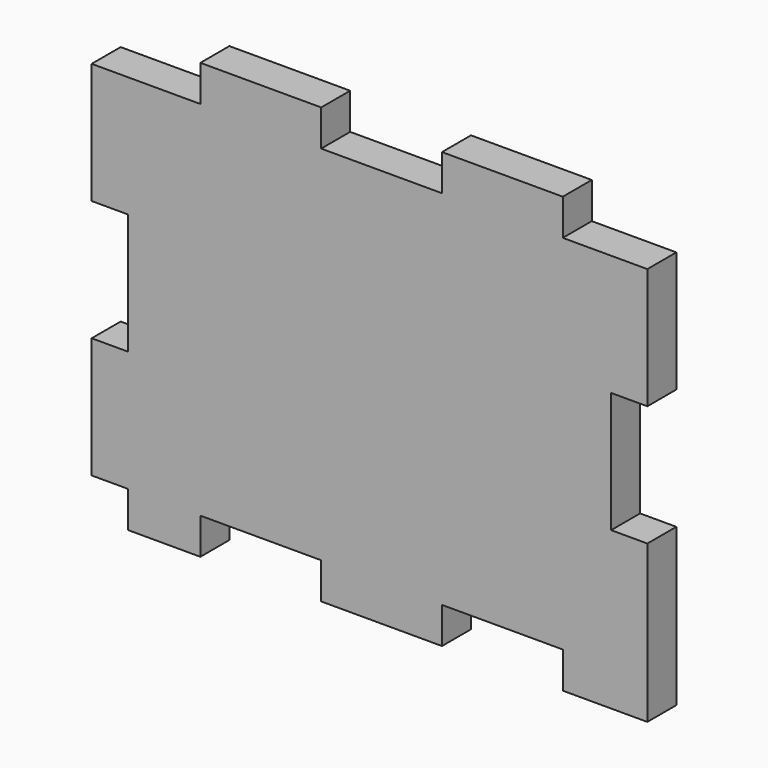
from build123d import *

# Parameters (mm, degrees)
RECTANGLE160_W                          = 3
RECTANGLE160_H                          = 10
EXTRUDE209_DEPTH                        = 3
EXTRUDE208_DEPTH                        = 3
BOX007_W                                = 46
BOX007_H                                = 3
BOX007_DEPTH                            = 30
RECTANGLE077_AS_DRAWN_W                 = 10
RECTANGLE077_AS_DRAWN_H                 = 3
EXTRUDE087_DEPTH                        = 3
EXTRUDE087_ONTO_RECTANGLE077_ROLL_ANGLE = 90
RECTANGLE076_AS_DRAWN_W                 = 10
RECTANGLE076_AS_DRAWN_H                 = 3
EXTRUDE086_DEPTH                        = 3
EXTRUDE086_ONTO_RECTANGLE076_ROLL_ANGLE = 90
FUSION063_PLACEMENT_ANGLE               = 180
RECTANGLE075_AS_DRAWN_W                 = 7
RECTANGLE075_AS_DRAWN_H                 = 3
EXTRUDE085_DEPTH                        = 3
EXTRUDE085_ONTO_RECTANGLE075_ROLL_ANGLE = 90
RECTANGLE074_AS_DRAWN_W                 = 10
RECTANGLE074_AS_DRAWN_H                 = 3
EXTRUDE084_DEPTH                        = 3
EXTRUDE084_ONTO_RECTANGLE074_ROLL_ANGLE = 90
RECTANGLE073_AS_DRAWN_W                 = 6
RECTANGLE073_AS_DRAWN_H                 = 3
EXTRUDE083_DEPTH                        = 3
EXTRUDE083_ONTO_RECTANGLE073_ROLL_ANGLE = 90
FUSION062_PLACEMENT_ANGLE               = 180


with BuildPart() as extrude209:
    # Rectangle160 → Extrude209 (new body)
    with BuildSketch(Plane(origin=(24, -68, 75), x_dir=(0, -1, 0), z_dir=(1, 0, 0))):
        with Locations((-1.5, 5)):
            Rectangle(RECTANGLE160_W, RECTANGLE160_H)
    extrude(amount=-EXTRUDE209_DEPTH)


with BuildPart() as extrude209_1:
    # Extrude209 placement: moved
    add(extrude209.part.moved(Location((-44, 133, 0))))


with BuildPart() as fusion064066:
    # Rectangle160 → Extrude208 (new body)
    with BuildSketch(Plane(origin=(24, -68, 75), x_dir=(0, -1, 0), z_dir=(1, 0, 0))):
        with Locations((-1.5, 5)):
            Rectangle(RECTANGLE160_W, RECTANGLE160_H)
    extrude(amount=-EXTRUDE208_DEPTH)


with BuildPart() as fusion064066_1:
    # Extrude208 placement: moved
    add(fusion064066.part.moved(Location((-1, 133, 0))))

    # Fusion064066: union Extrude209
    add(extrude209_1.part)


with BuildPart() as obj1:
    # Box007 → Box007 (new body)
    with BuildSketch(Plane(origin=(-23, 65, 55), x_dir=(1, 0, 0), z_dir=(0, 0, 1))):
        with Locations((23, 1.5)):
            Rectangle(BOX007_W, BOX007_H)
    extrude(amount=BOX007_DEPTH)


with BuildPart() as obj2:
    # Rectangle077 as drawn → Extrude087 (new)
    with BuildSketch(Plane.XY):
        with Locations((-5, -1.5)):
            Rectangle(RECTANGLE077_AS_DRAWN_W, RECTANGLE077_AS_DRAWN_H)
    extrude(amount=-EXTRUDE087_DEPTH)


with BuildPart() as obj2_1:
    # Extrude087 onto Rectangle077 roll: moved
    add(obj2.part.rotate(Axis((0, 0, 0), (1, 0, 0)), EXTRUDE087_ONTO_RECTANGLE077_ROLL_ANGLE))


with BuildPart() as obj2_2:
    # Extrude087 onto Rectangle077 placement: moved
    add(obj2_1.part.moved(Location((-6, -68, 55))))


with BuildPart() as obj3:
    # Rectangle076 as drawn → Extrude086 (new)
    with BuildSketch(Plane.XY):
        with Locations((-5, -1.5)):
            Rectangle(RECTANGLE076_AS_DRAWN_W, RECTANGLE076_AS_DRAWN_H)
    extrude(amount=-EXTRUDE086_DEPTH)


with BuildPart() as obj3_1:
    # Extrude086 onto Rectangle076 roll: moved
    add(obj3.part.rotate(Axis((0, 0, 0), (1, 0, 0)), EXTRUDE086_ONTO_RECTANGLE076_ROLL_ANGLE))


with BuildPart() as obj3_2:
    # Extrude086 onto Rectangle076 placement: moved
    add(obj3_1.part.moved(Location((14, -68, 55))))

    # Fusion063: union obj2
    add(obj2_2.part)


with BuildPart() as obj3_3:
    # Fusion063 placement: moved
    add(obj3_2.part.moved(Location((0, 0, 33))).rotate(Axis((0, 0, 33), (0, 0, 1)), FUSION063_PLACEMENT_ANGLE))


with BuildPart() as extrude085:
    # Rectangle075 as drawn → Extrude085 (new)
    with BuildSketch(Plane.XY):
        with Locations((-3.5, -1.5)):
            Rectangle(RECTANGLE075_AS_DRAWN_W, RECTANGLE075_AS_DRAWN_H)
    extrude(amount=-EXTRUDE085_DEPTH)


with BuildPart() as extrude085_1:
    # Extrude085 onto Rectangle075 roll: moved
    add(extrude085.part.rotate(Axis((0, 0, 0), (1, 0, 0)), EXTRUDE085_ONTO_RECTANGLE075_ROLL_ANGLE))


with BuildPart() as extrude085_2:
    # Extrude085 onto Rectangle075 placement: moved
    add(extrude085_1.part.moved(Location((-16, -68, 55))))


with BuildPart() as extrude084:
    # Rectangle074 as drawn → Extrude084 (new)
    with BuildSketch(Plane.XY):
        with Locations((-5, -1.5)):
            Rectangle(RECTANGLE074_AS_DRAWN_W, RECTANGLE074_AS_DRAWN_H)
    extrude(amount=-EXTRUDE084_DEPTH)


with BuildPart() as extrude084_1:
    # Extrude084 onto Rectangle074 roll: moved
    add(extrude084.part.rotate(Axis((0, 0, 0), (1, 0, 0)), EXTRUDE084_ONTO_RECTANGLE074_ROLL_ANGLE))


with BuildPart() as extrude084_2:
    # Extrude084 onto Rectangle074 placement: moved
    add(extrude084_1.part.moved(Location((4, -68, 55))))


with BuildPart() as cut035056:
    # Rectangle073 as drawn → Extrude083 (new)
    with BuildSketch(Plane.XY):
        with Locations((-3, -1.5)):
            Rectangle(RECTANGLE073_AS_DRAWN_W, RECTANGLE073_AS_DRAWN_H)
    extrude(amount=-EXTRUDE083_DEPTH)


with BuildPart() as cut035056_1:
    # Extrude083 onto Rectangle073 roll: moved
    add(cut035056.part.rotate(Axis((0, 0, 0), (1, 0, 0)), EXTRUDE083_ONTO_RECTANGLE073_ROLL_ANGLE))


with BuildPart() as cut035056_2:
    # Extrude083 onto Rectangle073 placement: moved
    add(cut035056_1.part.moved(Location((20, -68, 55))))

    # Fusion062: union Extrude085, Extrude084
    add(extrude085_2.part)
    add(extrude084_2.part)


with BuildPart() as cut035056_3:
    # Fusion062 placement: moved
    add(cut035056_2.part.rotate(Axis((0, 0, 0), (0, 0, 1)), FUSION062_PLACEMENT_ANGLE))

    # Fusion064: union obj1, obj3
    add(obj1.part)
    add(obj3_3.part)

    # Cut035056: cut Fusion064066
    add(fusion064066_1.part, mode=Mode.SUBTRACT)


solid = cut035056_3.part
